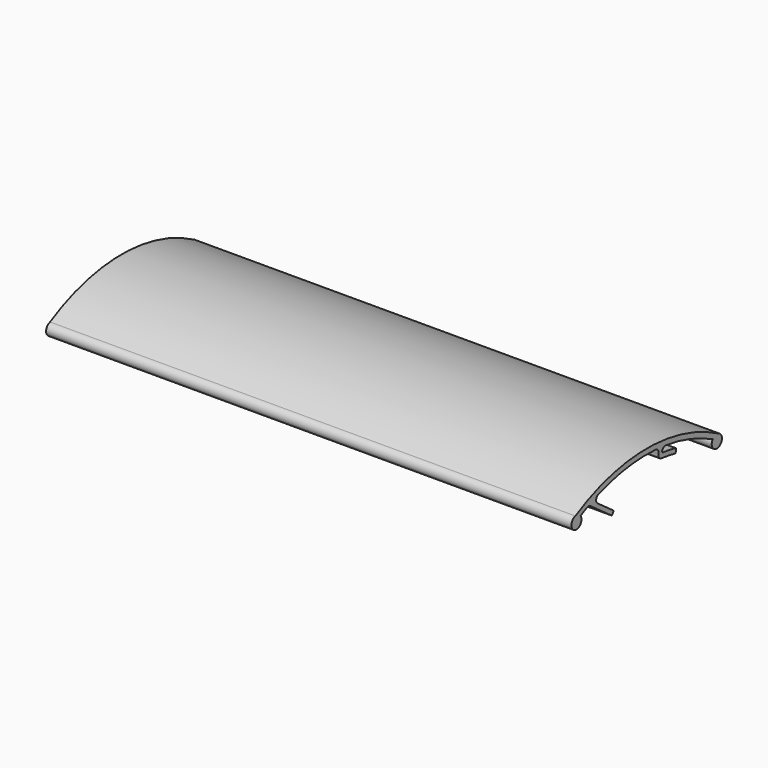
from build123d import *

# Parameters (mm, degrees)
F1_DEPTH = 250


with BuildPart() as f1:
    # F0 (on Right) → F1 (new body)
    with BuildSketch(Plane.YZ):
        with BuildLine():
            ThreePointArc((13.859929, 6.319504), (28.180626, 3.111082), (41.734991, -2.515243))
            ThreePointArc((41.734991, -2.515243), (45.078104, -7.248295), (45.036431, -1.453776))
            ThreePointArc((45.036431, -1.453776), (2.525944, 9.579321), (-39.984542, -1.453776))
            ThreePointArc((-39.984542, -1.453776), (-40.451565, -7.185418), (-36.926061, -2.64222))
            ThreePointArc((-36.926061, -2.64222), (-34.99118, -1.658343), (-33.031782, -0.724246))
            ThreePointArc((-33.031782, -0.724246), (-32.000108, -0.549892), (-31.021575, -0.920327))
            Line((-31.021575, -0.920327), (-18.615673, -9.900143))
            ThreePointArc((-18.615673, -9.900143), (-18.342106, -9.968997), (-18.096375, -9.830448))
            ThreePointArc((-18.096375, -9.830448), (-17.708156, -9.331039), (-17.336776, -8.818983))
            ThreePointArc((-17.336776, -8.818983), (-17.273279, -8.537763), (-17.425314, -8.29281))
            Line((-17.425314, -8.29281), (-26.837059, -1.480266))
            ThreePointArc((-26.837059, -1.480266), (-27.644846, 0.418569), (-26.34436, 2.020703))
            ThreePointArc((-26.34436, 2.020703), (-9.581923, 6.211648), (7.681849, 6.922643))
            ThreePointArc((7.681849, 6.922643), (9.129032, 6.167068), (9.531029, 4.584782))
            Line((9.531029, 4.584782), (9.467164, 4.216308))
            ThreePointArc((9.467164, 4.216308), (9.839909, 2.671927), (11.220932, 1.886547))
            ThreePointArc((11.220932, 1.886547), (15.151601, 1.359186), (19.05139, 0.638142))
            ThreePointArc((19.05139, 0.638142), (19.498732, 0.722672), (19.75406, 1.099591))
            Line((19.75406, 1.099591), (19.960784, 2.113738))
            ThreePointArc((19.960784, 2.113738), (19.875463, 2.557344), (19.502265, 2.811884))
            ThreePointArc((19.502265, 2.811884), (15.835762, 3.497442), (12.141993, 4.016392))
            ThreePointArc((12.141993, 4.016392), (11.732829, 4.255143), (11.629413, 4.717444))
            ThreePointArc((11.629413, 4.717444), (12.42624, 5.961819), (13.859929, 6.319504))
        make_face()
    extrude(amount=F1_DEPTH)


solid = f1.part
